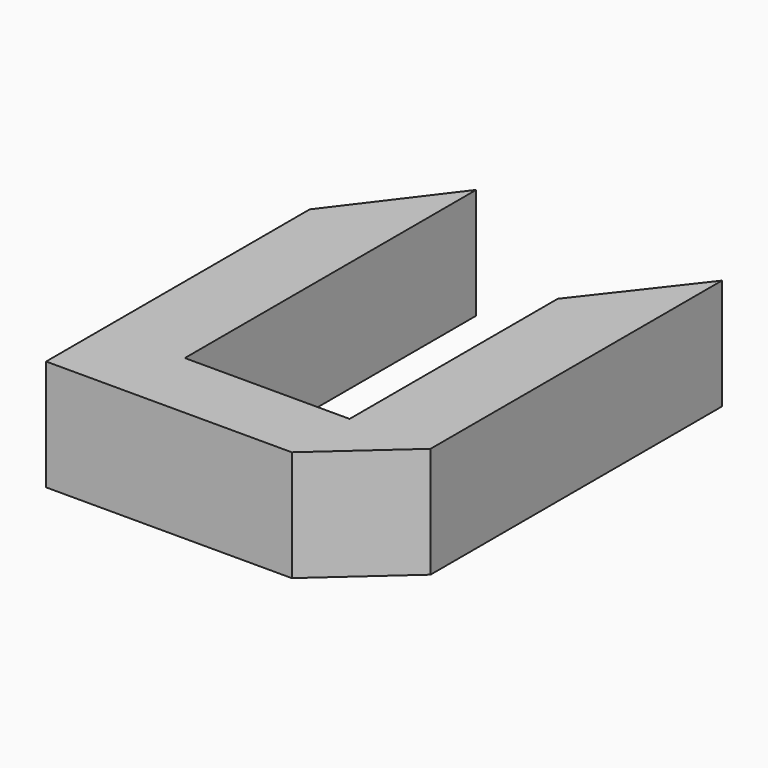
from build123d import *

# Parameters (mm, degrees)
F1_DEPTH = 25


with BuildPart() as f1:
    # F0 (on Top) → F1 (new body)
    with BuildSketch(Plane.XY):
        Polygon((9.293479, -54.78261), (27.554348, -38.478263), (9.293479, -38.478263), align=None)
        Polygon((-27.880436, 19.780052), (-27.880436, 43.695655), (-46.141308, 19.565219), align=None)
        Polygon((27.554348, 0), (27.554348, 43.695655), (9.293479, 20.217391), (9.293479, -38.478263), (27.554348, -38.478263), align=None)
        Polygon((9.293479, -54.78261), (9.293479, -38.478263), (-27.880436, -38.478263), (-46.141308, -54.78261), align=None)
        Polygon((-27.880436, -38.478263), (-27.880436, 19.780052), (-46.141308, 19.565219), (-46.141308, -54.78261), align=None)
    extrude(amount=F1_DEPTH)


solid = f1.part
